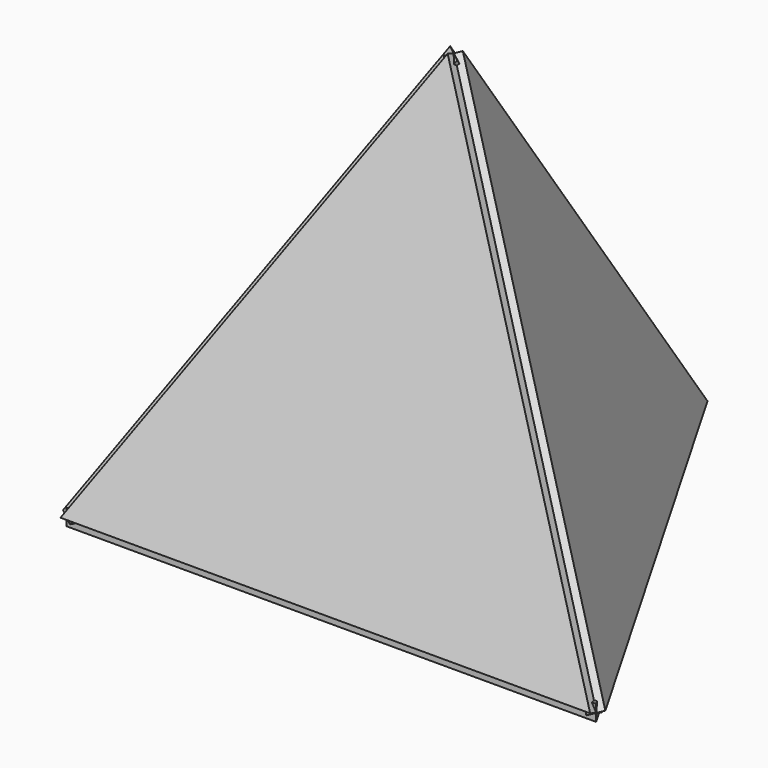
from build123d import *

# Parameters (mm, degrees)
F1_DEPTH  = 3
F4_ANGLE  = 70.53
F7_ANGLE  = 70.53
F11_ANGLE = 70.53


with BuildPart() as f1:
    # F0 (on Top) → F1 (new body)
    with BuildSketch(Plane.XY):
        Polygon((50, -28.867513), (0, 57.735027), (-50, -28.867513), align=None)
    extrude(amount=F1_DEPTH)


with BuildPart() as f3_1:
    # F3: copy of F1
    add(f1.part)


with BuildPart() as f3_1_1:
    # F4: moved
    add(f3_1.part.rotate(Axis((0, -28.867513, 1.5), (1, 0, 0)), F4_ANGLE))


with BuildPart() as f6_1:
    # F6: copy of F3_1
    add(f3_1_1.part)


with BuildPart() as f6_1_1:
    # F7: moved
    add(f6_1.part.rotate(Axis((25.095132, -14.368344, 42.126936), (0.5, -0.288658, -0.816503)), F7_ANGLE))


with BuildPart() as f9_1:
    # F9: copy of F6_1
    add(f6_1_1.part)


with BuildPart() as f10_1:
    # F10: copy of F3_1
    add(f3_1_1.part)


with BuildPart() as f10_1_1:
    # F11: moved
    add(f10_1.part.rotate(Axis((-25, -14.434626, 42.325137), (0.5, 0.288658, 0.816503)), F11_ANGLE))


solid = Compound([f1.part, f3_1_1.part, f6_1_1.part, f9_1.part, f10_1_1.part])
